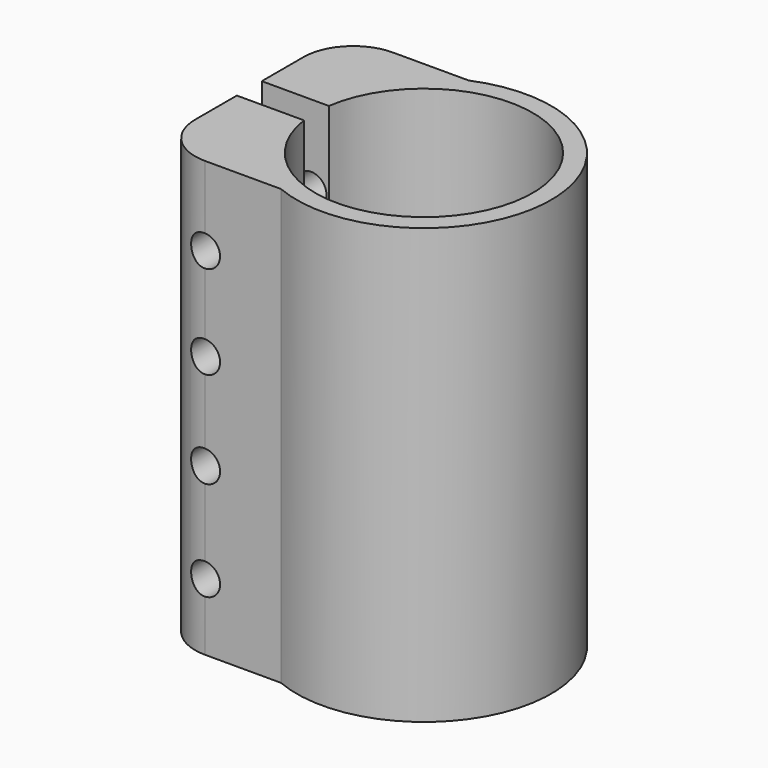
from build123d import *

# Parameters (mm, degrees)
F1_DEPTH       = 35
F3_D           = 5
F3_START       = 1.8205079
F3_CBORE_D     = 10
F3_CBORE_DEPTH = 8


with BuildPart() as f1:
    # F0 (on Top) → F1 (new body, symmetric)
    with BuildSketch(Plane.XY):
        with BuildLine():
            ThreePointArc((-17.3192642082, 2.5086026559), (17.5, 0), (-17.3192642082, -2.5086026559))
            Line((-17.3192642082, -2.5086026559), (-28.1192642082, -2.5086026559))
            Line((-28.1192642082, -2.5086026559), (-28.1192642082, -10.9086026559))
            ThreePointArc((-28.1192642082, -10.9086026559), (-25.7761184577, -16.5654569054), (-20.1192642082, -18.9086026559))
            Line((-20.1192642082, -18.9086026559), (-7.9192642082, -18.9086026559))
            ThreePointArc((-7.9192642082, -18.9086026559), (20.5, 0), (-7.9192642082, 18.9086026559))
            Line((-7.9192642082, 18.9086026559), (-20.1192642082, 18.9086026559))
            ThreePointArc((-20.1192642082, 18.9086026559), (-25.7761184577, 16.5654569054), (-28.1192642082, 10.9086026559))
            Line((-28.1192642082, 10.9086026559), (-28.1192642082, 2.5086026559))
            Line((-28.1192642082, 2.5086026559), (-17.3192642082, 2.5086026559))
        make_face()
    extrude(amount=F1_DEPTH, both=True)

    # F3 (through all)
    # its depths count from where the whole tool has entered the part; down to there all is cleared
    with Locations(Plane(origin=(0, 18.9086026559, 0), x_dir=(-1, 0, 0), z_dir=(0, 1, 0)).offset(-F3_START)):
        with Locations((20.2, 22.25), (20.2, 7.25), (20.2, -8.25), (20.2, -24.25)):
            CounterBoreHole(F3_D / 2, F3_CBORE_D / 2, F3_CBORE_DEPTH)


solid = f1.part
